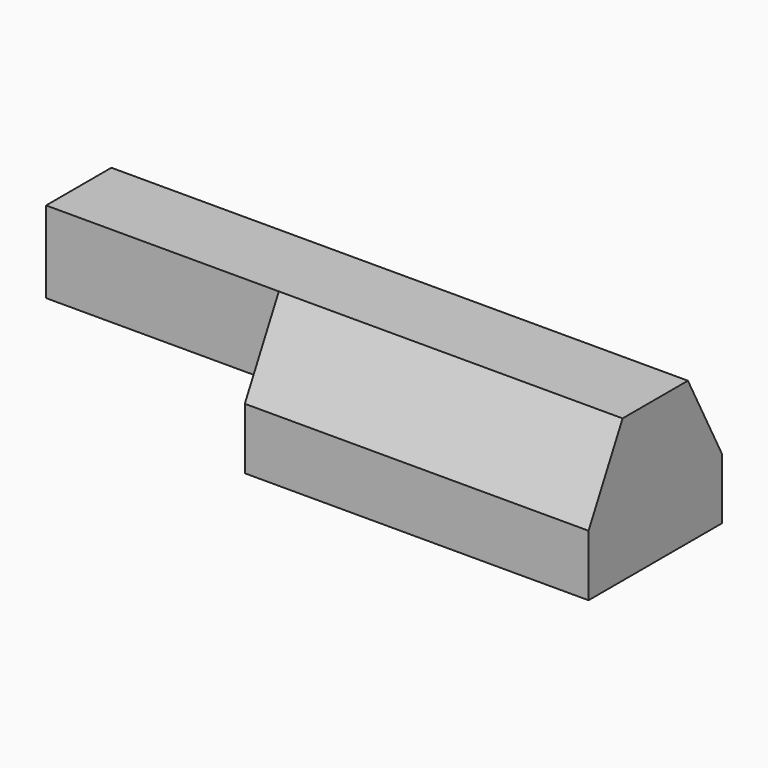
from build123d import *

# Parameters (mm, degrees)
F0_W      = 84.2419564724
F0_H      = 40.8445894718
F0_W_2    = 75
F0_H_2    = 16
F1_DEPTH  = 7.5
F2_W      = 16.3
F2_H      = 6
F3_DEPTH  = 73.5
F4_W      = 57.0175424218
F4_H      = 20
F4_W_2    = 84.2419564724
F5_DEPTH  = 20
F6_R      = 4.1
F7_DEPTH  = 134.3
F9_DEPTH  = 84.23
F10_W     = 7.2
F10_H     = 13.4
F11_DEPTH = 31.8


with BuildPart() as f1:
    # F0 (on Top) → F1 (new body, symmetric)
    with BuildSketch(Plane.XY):
        Rectangle(F0_W, F0_H)
        Rectangle(F0_W_2, F0_H_2, mode=Mode.SUBTRACT)
        Rectangle(F0_W_2, F0_H_2)
    extrude(amount=F1_DEPTH, both=True)

    # F2 (on face) → F3 (cut)
    with BuildSketch(Plane(origin=(-42.1209782362, 0, 0), x_dir=(0, -1, 0), z_dir=(-1, 0, 0))):
        Rectangle(F2_W, F2_H)
    extrude(amount=-F3_DEPTH, mode=Mode.SUBTRACT)

    # F4 (on face) → F5 (join)
    with BuildSketch(Plane.XY.offset(7.5)):
        with Locations((-70.6297494471, 0)):
            Rectangle(F4_W, F4_H)
        Rectangle(F4_W_2, F4_H)
    extrude(amount=F5_DEPTH)

    # F6 (on face) → F7 (cut)
    with BuildSketch(Plane(origin=(-99.138520658, 0, 0), x_dir=(0, -1, 0), z_dir=(-1, 0, 0))):
        with Locations((0, 17.5)):
            Circle(F6_R)
    extrude(amount=-F7_DEPTH, mode=Mode.SUBTRACT)

    # F8 (on face) → F9 (join)
    with BuildSketch(Plane.YZ.offset(42.1209782362)):
        Polygon((-10, 7.5), (-10, 27.5), (-20.4222947359, 7.5), align=None)
        Polygon((20.4222947359, 7.5), (10, 27.5), (10, 7.5), align=None)
    extrude(amount=-F9_DEPTH)

    # F10 (on face) → F11 (cut)
    with BuildSketch(Plane(origin=(0, 0, -7.5), x_dir=(1, 0, 0), z_dir=(0, 0, -1))):
        with Locations((17.7071348711, 0)):
            Rectangle(F10_W, F10_H)
    extrude(amount=-F11_DEPTH, mode=Mode.SUBTRACT)


solid = f1.part
